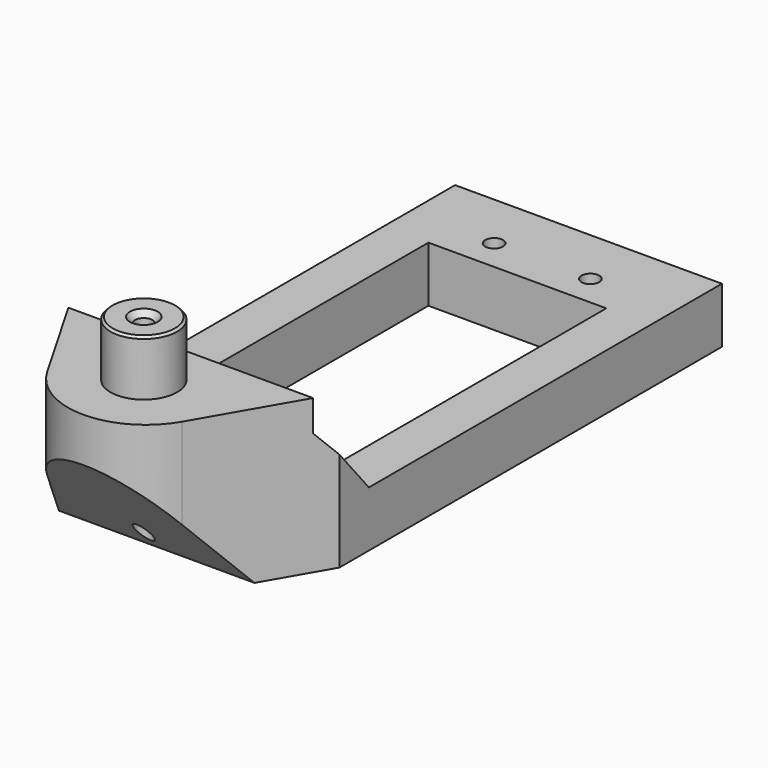
from build123d import *

# Parameters (mm, degrees)
F0_R           = 1.016
F0_W           = 20.32
F0_H           = 40.64
F2_DEPTH       = 17.526
F3_DEPTH       = 63.5
F4_R           = 3.81
F5_DEPTH       = 6.35
F7_D           = 2.032
F7_CSINK_D     = 3.175
F7_CSINK_ANGLE = 82
F8_SIZE        = 0.254


with BuildPart() as f2:
    # F0 (on Top) → F2 (new body, through all)
    with BuildSketch(Plane.XY):
        with BuildLine():
            Line((15.24, 40.64), (-15.24, 40.64))
            Line((-15.24, 40.64), (-15.24, -13.97))
            Line((-15.24, -13.97), (-7.698966, -27.031454))
            ThreePointArc((-7.698966, -27.031454), (0, -31.476454), (7.698966, -27.031454))
            Line((7.698966, -27.031454), (15.24, -13.97))
            Line((15.24, -13.97), (15.24, 40.64))
        make_face()
        with Locations((-5.4991, -13.97)):
            Circle(F0_R, mode=Mode.SUBTRACT)
        with Locations((5.4991, -13.97)):
            Circle(F0_R, mode=Mode.SUBTRACT)
        with Locations((-5.4991, 34.036)):
            Circle(F0_R, mode=Mode.SUBTRACT)
        with Locations((0, 10.16)):
            Rectangle(F0_W, F0_H, mode=Mode.SUBTRACT)
        with Locations((5.4991, 34.036)):
            Circle(F0_R, mode=Mode.SUBTRACT)
    extrude(amount=-F2_DEPTH)

    # F1 (on Right) → F3 (intersect, symmetric)
    with BuildSketch(Plane.YZ):
        Polygon((-16.160291, 0), (-31.476454, 0), (-31.476454, -5.0606), (-21.016742, -17.526), (40.64, -17.526), (40.64, -11.176), (-9.766352, -11.176), (-16.160291, -3.556), align=None)
    extrude(amount=F3_DEPTH, both=True, mode=Mode.INTERSECT)

    # F4 (on face) → F5 (join)
    with BuildSketch(Plane.XY):
        with Locations((0, -22.86)):
            Circle(F4_R)
    extrude(amount=F5_DEPTH)

    # F7 (through all)
    with Locations(Plane.XY.offset(6.35)):
        with Locations((0, -22.86)):
            CounterSinkHole(F7_D / 2, F7_CSINK_D / 2, counter_sink_angle=F7_CSINK_ANGLE)

    # F8
    f8_edges = [f2.edges().sort_by_distance(p)[0] for p in [
        (-3.81, -22.86, 6.35),
    ]]
    chamfer(f8_edges, length=F8_SIZE)


solid = f2.part
